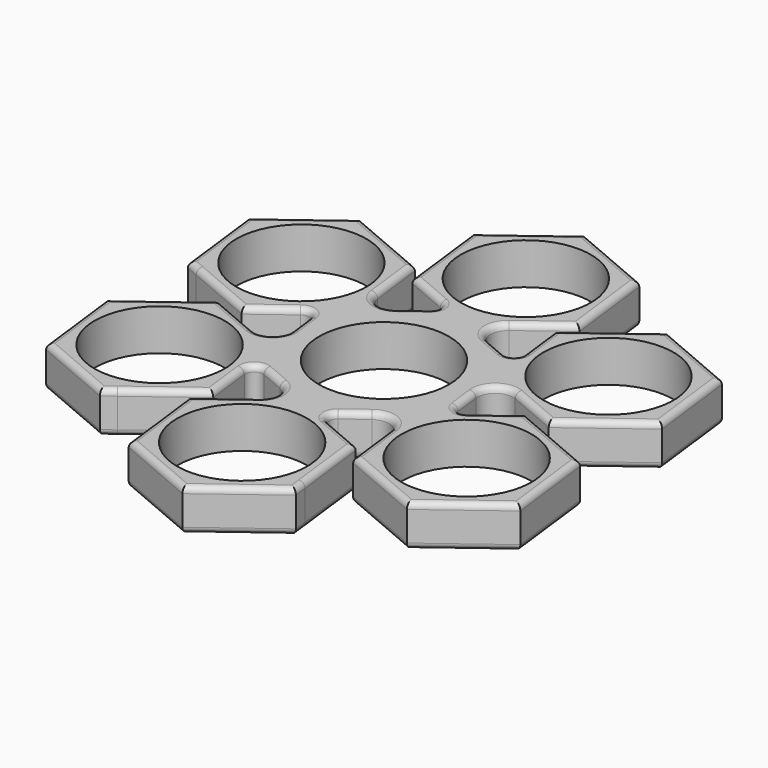
from build123d import *

# Parameters (mm, degrees)
F0_R     = 11
F1_DEPTH = 7
F2_R     = 1.5
F3_R     = 3
F4_R     = 1
F5_R     = 13.020401
F5_R_2   = 11
F6_DEPTH = 7
F8_D     = 22


with BuildPart() as f1:
    # F0 (on Top) → F1 (new body)
    with BuildSketch(Plane.XY):
        with BuildLine():
            ThreePointArc((12.145568, -8.802566), (14.268559, -4.626904), (15, 0))
            ThreePointArc((15, 0), (14.972811, 0.902728), (14.891344, 1.802184))
            ThreePointArc((14.891344, 1.802184), (14.45559, 4.004486), (13.69603, 6.117088))
            ThreePointArc((13.69603, 6.117088), (10.516665, 10.695782), (5.884935, 13.797374))
            ThreePointArc((5.884935, 13.797374), (3.759808, 14.521152), (1.550461, 14.919654))
            ThreePointArc((1.550461, 14.919654), (-4.004486, 14.45559), (-9.006409, 11.995191))
            ThreePointArc((-9.006409, 11.995191), (-10.695782, 10.516665), (-12.145568, 8.802566))
            ThreePointArc((-12.145568, 8.802566), (-14.521152, 3.759808), (-14.891344, -1.802184))
            ThreePointArc((-14.891344, -1.802184), (-14.45559, -4.004486), (-13.69603, -6.117088))
            ThreePointArc((-13.69603, -6.117088), (-10.516665, -10.695782), (-5.884935, -13.797374))
            ThreePointArc((-5.884935, -13.797374), (-3.759808, -14.521152), (-1.550461, -14.919654))
            ThreePointArc((-1.550461, -14.919654), (4.004486, -14.45559), (9.006409, -11.995191))
            ThreePointArc((9.006409, -11.995191), (10.695782, -10.516665), (12.145568, -8.802566))
        make_face()
        Circle(F0_R, mode=Mode.SUBTRACT)
        with BuildLine():
            ThreePointArc((14.891344, 1.802184), (14.972811, 0.902728), (15, 0))
            ThreePointArc((15, 0), (14.268559, -4.626904), (12.145568, -8.802566))
            Line((12.145568, -8.802566), (12.183388, -9.115065))
            Line((12.183388, -9.115065), (15.876949, -6.34181))
            Line((15.876949, -6.34181), (14.891344, 1.802184))
        make_face()
        with BuildLine():
            ThreePointArc((5.884935, 13.797374), (10.516665, 10.695782), (13.69603, 6.117088))
            Line((13.69603, 6.117088), (13.985572, 5.993591))
            Line((13.985572, 5.993591), (13.430643, 10.578936))
            Line((13.430643, 10.578936), (5.884935, 13.797374))
        make_face()
        Polygon((24.178578, -0.108656), (15.876949, -6.34181), (17.679132, -21.233154), (27.228017, -25.305999), (35.529647, -19.072845), (34.004928, -6.474173), (35.851708, -5.087546), align=None)
        Polygon((17.679132, -21.233154), (15.876949, -6.34181), (12.183388, -9.115065), (13.985572, -24.006409), (27.782946, -29.891344), (39.778136, -20.884935), (37.975953, -5.993591), (35.851708, -5.087546), (34.004928, -6.474173), (35.529647, -19.072845), (27.228017, -25.305999), align=None)
        with BuildLine():
            Line((2.446306, -16.920746), (9.006409, -11.995191))
            ThreePointArc((9.006409, -11.995191), (4.004486, -14.45559), (-1.550461, -14.919654))
            Line((-1.550461, -14.919654), (-1.802184, -15.108656))
            Line((-1.802184, -15.108656), (2.446306, -16.920746))
        make_face()
        Polygon((13.430643, 10.578936), (13.985572, 5.993591), (27.782946, 0.108656), (39.778136, 9.115065), (37.975953, 24.006409), (24.178578, 29.891344), (22.331798, 28.504717), (22.609262, 26.212044), (34.282392, 21.233154), (35.529647, 10.927155), (27.228017, 4.694001), align=None)
        Polygon((11.995191, -20.993591), (2.446306, -16.920746), (-9.548885, -25.927155), (-8.30163, -36.233154), (1.247255, -40.305999), (11.395665, -32.686218), (13.51991, -33.592263), align=None)
        Polygon((-9.548885, -25.927155), (2.446306, -16.920746), (-1.802184, -15.108656), (-13.797374, -24.115065), (-11.995191, -39.006409), (1.802184, -44.891344), (13.797374, -35.884935), (13.51991, -33.592263), (11.395665, -32.686218), (1.247255, -40.305999), (-8.30163, -36.233154), align=None)
        with BuildLine():
            ThreePointArc((-9.006409, 11.995191), (-4.004486, 14.45559), (1.550461, 14.919654))
            Line((1.550461, 14.919654), (1.802184, 15.108656))
            Line((1.802184, 15.108656), (-2.446306, 16.920746))
            Line((-2.446306, 16.920746), (-9.006409, 11.995191))
        make_face()
        Polygon((12.183388, 20.884935), (13.430643, 10.578936), (27.228017, 4.694001), (35.529647, 10.927155), (34.282392, 21.233154), (22.609262, 26.212044), (22.331798, 28.504717), align=None)
        with BuildLine():
            Line((-13.430643, -10.578936), (-5.884935, -13.797374))
            ThreePointArc((-5.884935, -13.797374), (-10.516665, -10.695782), (-13.69603, -6.117088))
            Line((-13.69603, -6.117088), (-13.985572, -5.993591))
            Line((-13.985572, -5.993591), (-13.430643, -10.578936))
        make_face()
        Polygon((-2.446306, 16.920746), (1.802184, 15.108656), (13.797374, 24.115065), (11.995191, 39.006409), (-1.802184, 44.891344), (-13.797374, 35.884935), (-13.51991, 33.592263), (-11.395665, 32.686218), (-1.247255, 40.305999), (8.30163, 36.233154), (9.548885, 25.927155), align=None)
        Polygon((-12.183388, -20.884935), (-13.430643, -10.578936), (-27.228017, -4.694001), (-35.529647, -10.927155), (-34.282392, -21.233154), (-22.609262, -26.212044), (-22.331798, -28.504717), align=None)
        Polygon((-27.228017, -4.694001), (-13.430643, -10.578936), (-13.985572, -5.993591), (-27.782946, -0.108656), (-39.778136, -9.115065), (-37.975953, -24.006409), (-24.178578, -29.891344), (-22.331798, -28.504717), (-22.609262, -26.212044), (-34.282392, -21.233154), (-35.529647, -10.927155), align=None)
        with BuildLine():
            ThreePointArc((-14.891344, -1.802184), (-14.521152, 3.759808), (-12.145568, 8.802566))
            Line((-12.145568, 8.802566), (-12.183388, 9.115065))
            Line((-12.183388, 9.115065), (-15.876949, 6.34181))
            Line((-15.876949, 6.34181), (-14.891344, -1.802184))
        make_face()
        Polygon((-11.995191, 20.993591), (-2.446306, 16.920746), (9.548885, 25.927155), (8.30163, 36.233154), (-1.247255, 40.305999), (-11.395665, 32.686218), (-13.51991, 33.592263), align=None)
        Polygon((-15.876949, 6.34181), (-12.183388, 9.115065), (-13.985572, 24.006409), (-27.782946, 29.891344), (-39.778136, 20.884935), (-37.975953, 5.993591), (-35.851708, 5.087546), (-34.004928, 6.474173), (-35.529647, 19.072845), (-27.228017, 25.305999), (-17.679132, 21.233154), align=None)
        Polygon((-24.178578, 0.108656), (-15.876949, 6.34181), (-17.679132, 21.233154), (-27.228017, 25.305999), (-35.529647, 19.072845), (-34.004928, 6.474173), (-35.851708, 5.087546), align=None)
    extrude(amount=F1_DEPTH)

    # F2
    f2_edges = [f1.edges().sort_by_distance(p)[0] for p in [
        (-2.446306, 16.920746, 3.5),
        (13.430643, 10.578936, 3.5),
        (15.876949, -6.34181, 3.5),
        (2.446306, -16.920746, 3.5),
        (-13.430643, -10.578936, 3.5),
        (-15.876949, 6.34181, 3.5),
    ]]
    fillet(f2_edges, radius=F2_R)

    # F3
    f3_edges = [f1.edges().sort_by_distance(p)[0] for p in [
        (-1.550461, -14.919654, 3.5),
        (-13.69603, -6.117088, 3.5),
        (-12.145568, 8.802566, 3.5),
        (1.550461, 14.919654, 3.5),
        (13.69603, 6.117088, 3.5),
        (12.145568, -8.802566, 3.5),
    ]]
    fillet(f3_edges, radius=F3_R)

    # F4
    f4_edges = [f1.edges().sort_by_distance(p)[0] for p in [
        (15.297439, -1.553353, 0),
        (16.207063, 3.415322, 0),
        (16.465442, -4.962073, 0),
        (23.484139, 1.942207, 0),
        (21.066577, -2.445255, 0),
        (33.780541, 4.61186, 0),
        (31.077265, -3.051123, 0),
        (38.877045, 16.560737, 0),
        (38.877045, -13.439263, 0),
        (31.077265, 26.948877, 0),
        (33.780541, -25.38814, 0),
        (18.180983, 25.38814, 0),
        (20.884259, -26.948877, 0),
        (12.650942, 17.021564, 0),
        (13.424071, -19.366757, 0),
        (12.530002, 11.778455, 0),
        (11.061288, -12.328067, 0),
        (8.993963, 12.471294, 0),
        (6.303476, -14.024647, 0),
        (5.145776, 15.74339, 0),
        (3.93544, -16.740527, 0),
        (10.060069, 21.308965, 0),
        (8.415636, -19.466819, 0),
        (12.896282, 31.560737, 0),
        (12.896282, -28.439263, 0),
        (5.096503, 41.948877, 0),
        (7.799779, -40.38814, 0),
        (-7.799779, 40.38814, 0),
        (-5.096503, -41.948877, 0),
        (-12.896282, 28.439263, 0),
        (-12.896282, -31.560737, 0),
        (-8.415636, 19.466819, 0),
        (-10.060069, -21.308965, 0),
        (-3.93544, 16.740527, 0),
        (-5.145776, -15.74339, 0),
        (-6.303476, 14.024647, 0),
        (-8.993963, -12.471294, 0),
        (-11.061288, 12.328067, 0),
        (-12.530002, -11.778455, 0),
        (-13.424071, 19.366757, 0),
        (-12.650942, -17.021564, 0),
        (-20.884259, 26.948877, 0),
        (-18.180983, -25.38814, 0),
        (-33.780541, 25.38814, 0),
        (-31.077265, -26.948877, 0),
        (-38.877045, 13.439263, 0),
        (-38.877045, -16.560737, 0),
        (-31.077265, 3.051123, 0),
        (-33.780541, -4.61186, 0),
        (-21.066577, 2.445255, 0),
        (-23.484139, -1.942207, 0),
        (-16.465442, 4.962073, 0),
        (-16.207063, -3.415322, 0),
        (-15.297439, 1.553353, 0),
        (-11, 0, 0),
        (15.297439, -1.553353, 7),
        (16.207063, 3.415322, 7),
        (16.465442, -4.962073, 7),
        (23.484139, 1.942207, 7),
        (21.066577, -2.445255, 7),
        (33.780541, 4.61186, 7),
        (31.077265, -3.051123, 7),
        (38.877045, 16.560737, 7),
        (38.877045, -13.439263, 7),
        (31.077265, 26.948877, 7),
        (33.780541, -25.38814, 7),
        (18.180983, 25.38814, 7),
        (20.884259, -26.948877, 7),
        (12.650942, 17.021564, 7),
        (13.424071, -19.366757, 7),
        (12.530002, 11.778455, 7),
        (11.061288, -12.328067, 7),
        (8.993963, 12.471294, 7),
        (6.303476, -14.024647, 7),
        (5.145776, 15.74339, 7),
        (3.93544, -16.740527, 7),
        (10.060069, 21.308965, 7),
        (8.415636, -19.466819, 7),
        (12.896282, 31.560737, 7),
        (12.896282, -28.439263, 7),
        (5.096503, 41.948877, 7),
        (7.799779, -40.38814, 7),
        (-7.799779, 40.38814, 7),
        (-5.096503, -41.948877, 7),
        (-12.896282, 28.439263, 7),
        (-12.896282, -31.560737, 7),
        (-8.415636, 19.466819, 7),
        (-10.060069, -21.308965, 7),
        (-3.93544, 16.740527, 7),
        (-5.145776, -15.74339, 7),
        (-6.303476, 14.024647, 7),
        (-8.993963, -12.471294, 7),
        (-11.061288, 12.328067, 7),
        (-12.530002, -11.778455, 7),
        (-13.424071, 19.366757, 7),
        (-12.650942, -17.021564, 7),
        (-20.884259, 26.948877, 7),
        (-18.180983, -25.38814, 7),
        (-33.780541, 25.38814, 7),
        (-31.077265, -26.948877, 7),
        (-38.877045, 13.439263, 7),
        (-38.877045, -16.560737, 7),
        (-31.077265, 3.051123, 7),
        (-33.780541, -4.61186, 7),
        (-21.066577, 2.445255, 7),
        (-23.484139, -1.942207, 7),
        (-16.465442, 4.962073, 7),
        (-16.207063, -3.415322, 7),
        (-15.297439, 1.553353, 7),
        (-11, 0, 7),
    ]]
    fillet(f4_edges, radius=F4_R)

    # F5 (on Top) → F6 (join, through all)
    with BuildSketch(Plane.XY):
        Circle(F5_R)
        Circle(F5_R_2, mode=Mode.SUBTRACT)
    extrude(amount=F6_DEPTH)

    # F8 (through all)
    with Locations(Plane.XY.offset(7)):
        with Locations((0, 30), (-25.980762, 15), (-25.980762, -15), (0, -30), (25.980762, -15), (25.980762, 15)):
            Hole(F8_D / 2)


solid = f1.part
